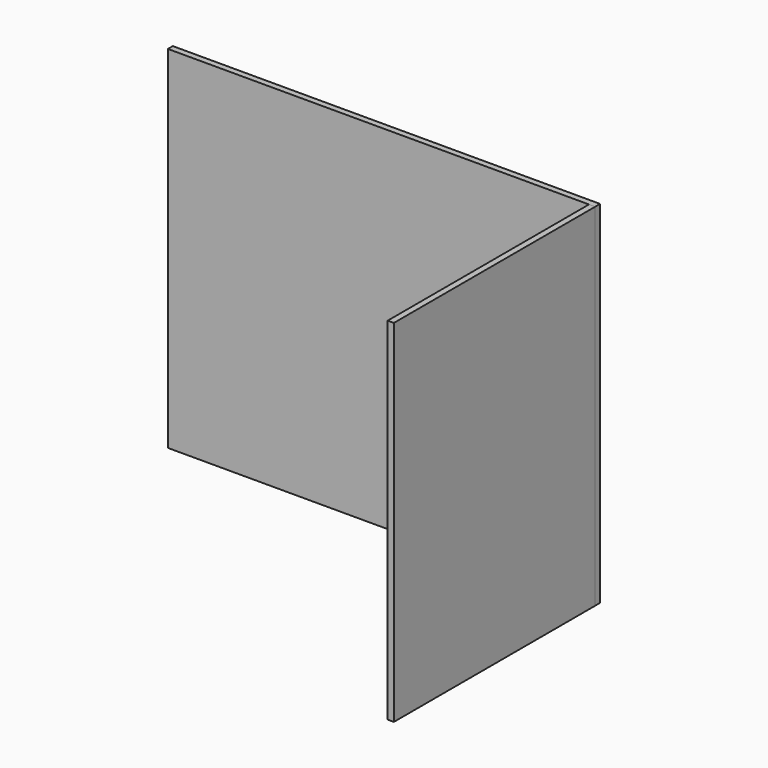
from build123d import *

# Parameters (mm, degrees)
F0_W     = 900
F0_H     = 740
F1_DEPTH = 13
F3_W     = 530
F3_H     = 740
F4_DEPTH = 13


with BuildPart() as f1:
    # F0 (on Front) → F1 (new body)
    with BuildSketch(Plane.XZ):
        Rectangle(F0_W, F0_H)
    extrude(amount=F1_DEPTH)


with BuildPart() as f4:
    # F3 (on 3pt) → F4 (new body)
    with BuildSketch(Plane(origin=(450, 0, 0), x_dir=(0, -1, 0), z_dir=(-1, 0, 0))):
        with Locations((278, 0)):
            Rectangle(F3_W, F3_H)
    extrude(amount=F4_DEPTH)


solid = Compound([f1.part, f4.part])
